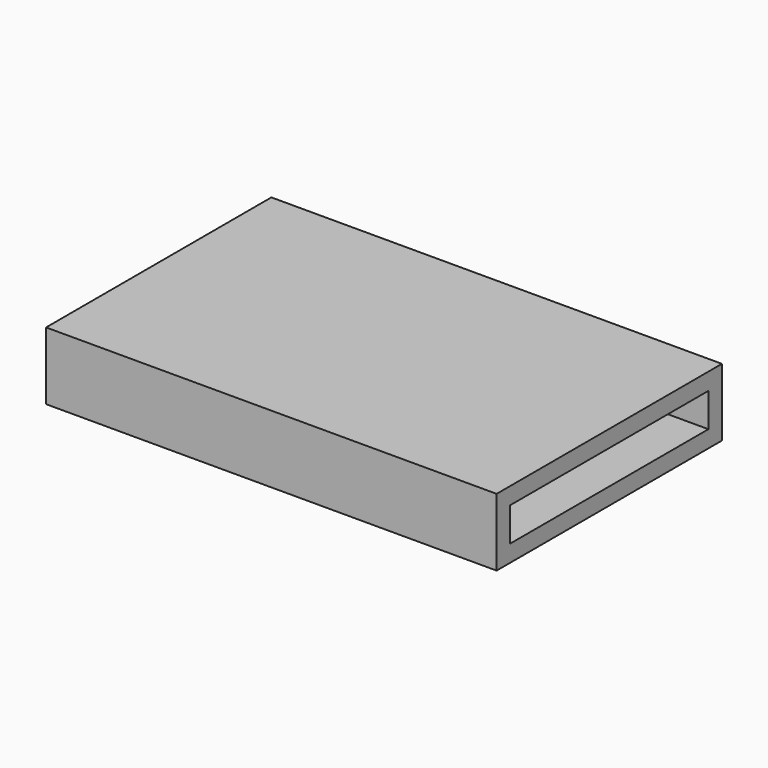
from build123d import *

# Parameters (mm, degrees)
F0_W     = 3.81
F0_H     = 3.81
F0_W_2   = 55.88
F0_H_2   = 7.62
F1_DEPTH = 101.6
F2_R     = 3.175
F3_DEPTH = 7.62


with BuildPart() as f1:
    # F0 (on Right) → F1 (new body)
    with BuildSketch(Plane.YZ):
        with Locations((29.845, 5.715)):
            Rectangle(F0_W, F0_H)
        with Locations((0, 5.715)):
            Rectangle(F0_W_2, F0_H)
        with Locations((29.845, 0)):
            Rectangle(F0_W, F0_H_2)
        with Locations((-29.845, 5.715)):
            Rectangle(F0_W, F0_H)
        Polygon((31.75, -7.62), (31.75, -3.81), (27.94, -3.81), (-27.94, -3.81), (-31.75, -3.81), (-31.75, -7.62), (27.94, -7.62), align=None)
        with Locations((-29.845, 0)):
            Rectangle(F0_W, F0_H_2)
    extrude(amount=F1_DEPTH)

    # F2 (on face) → F3 (join)
    with BuildSketch(Plane.XY.offset(-3.81)):
        Circle(F2_R)
    extrude(amount=F3_DEPTH)


solid = f1.part
